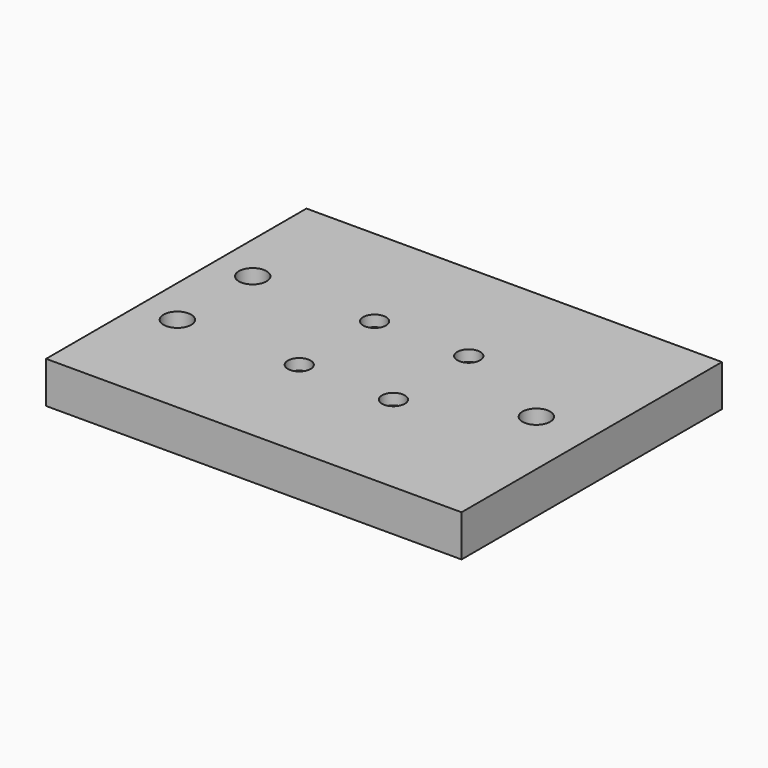
from build123d import *

# Parameters (mm, degrees)
F0_W           = 150
F0_H           = 117.5
F1_DEPTH       = 15
F3_D           = 10
F5_D           = 4.4
F5_CBORE_D     = 8.25
F5_CBORE_DEPTH = 4


with BuildPart() as f1:
    # F0 (on Top) → F1 (new body)
    with BuildSketch(Plane.XY):
        Rectangle(F0_W, F0_H)
    extrude(amount=F1_DEPTH)

    # F3 (through all)
    with Locations(Plane.XY.offset(15)):
        with Locations((-61, 17), (-61, -17), (55, 0)):
            Hole(F3_D / 2)

    # F5 (through all)
    with Locations(Plane.XY.offset(15)):
        with Locations((-17, 17), (17, 17), (17, -17), (-17, -17)):
            CounterBoreHole(F5_D / 2, F5_CBORE_D / 2, F5_CBORE_DEPTH)


solid = f1.part
